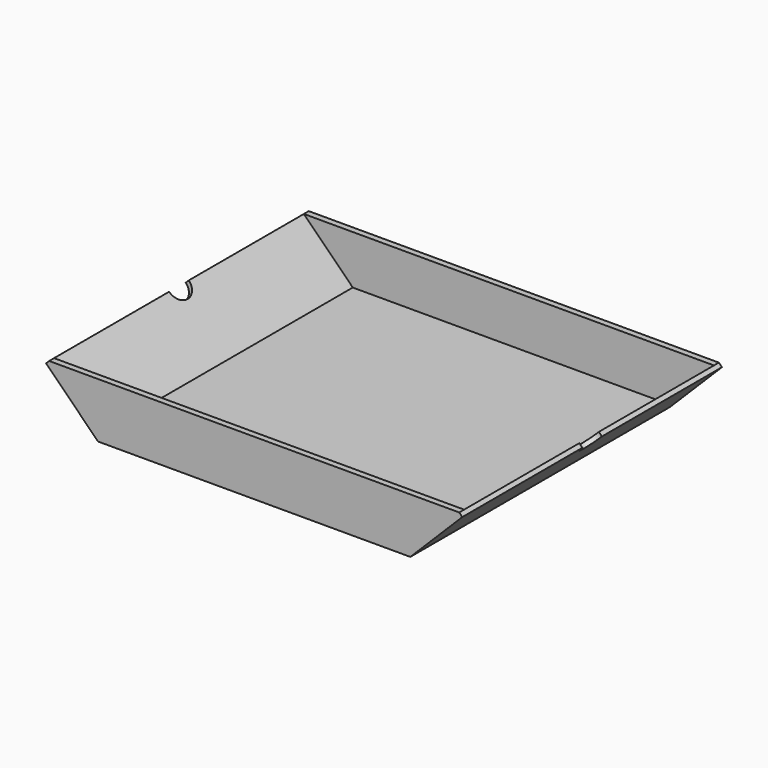
from build123d import *

# Parameters (mm, degrees)
F0_W      = 255
F0_H      = 265
F1_DEPTH  = 5
F3_DEPTH  = 265
F4_R      = 10
F5_DEPTH  = 25
F7_DEPTH  = 25
F9_DEPTH  = 5
F11_DEPTH = 5


with BuildPart() as f1:
    # F0 (on Top) → F1 (new body)
    with BuildSketch(Plane.XY):
        Rectangle(F0_W, F0_H)
    extrude(amount=F1_DEPTH)

    # F2 (on face) → F3 (join)
    with BuildSketch(Plane.XZ.offset(132.5)):
        Polygon((-169.9264068712, 42.4264068712), (-127.5, 0), (-127.5, 5), (-167.4264068712, 44.9264068712), align=None)
        Polygon((127.5, 5), (127.5, 0), (169.9264068712, 42.4264068712), (167.4264068712, 44.9264068712), align=None)
    extrude(amount=-F3_DEPTH)

    # F4 (on face) → F5 (cut)
    with BuildSketch(Plane(origin=(-61.25, 0, -61.25), x_dir=(0, 1, 0), z_dir=(0.7071067812, 0, 0.7071067812))):
        with Locations((0, 150.1561146013)):
            Circle(F4_R)
    extrude(amount=-F5_DEPTH, mode=Mode.SUBTRACT)

    # F6 (on face) → F7 (cut)
    with BuildSketch(Plane(origin=(61.25, 0, -61.25), x_dir=(0, -1, 0), z_dir=(-0.7071067812, 0, 0.7071067812))):
        with BuildLine():
            ThreePointArc((-10, 150.1561146013), (0, 140.1561146013), (10, 150.1561146013))
            Line((10, 150.1561146013), (-10, 150.1561146013))
        make_face()
    extrude(amount=-F7_DEPTH, mode=Mode.SUBTRACT)

    # F8 (on face) → F9 (join)
    with BuildSketch(Plane.XZ.offset(132.5)):
        Polygon((167.4264068712, 44.9264068712), (-167.4264068712, 44.9264068712), (-127.5, 5), (127.5, 5), align=None)
    extrude(amount=-F9_DEPTH)

    # F10 (on face) → F11 (join)
    with BuildSketch(Plane(origin=(0, 132.5, 0), x_dir=(-1, 0, 0), z_dir=(0, 1, 0))):
        Polygon((167.4264068712, 44.9264068712), (-167.4264068712, 44.9264068712), (-127.5, 5), (127.5, 5), align=None)
    extrude(amount=-F11_DEPTH)


solid = f1.part
